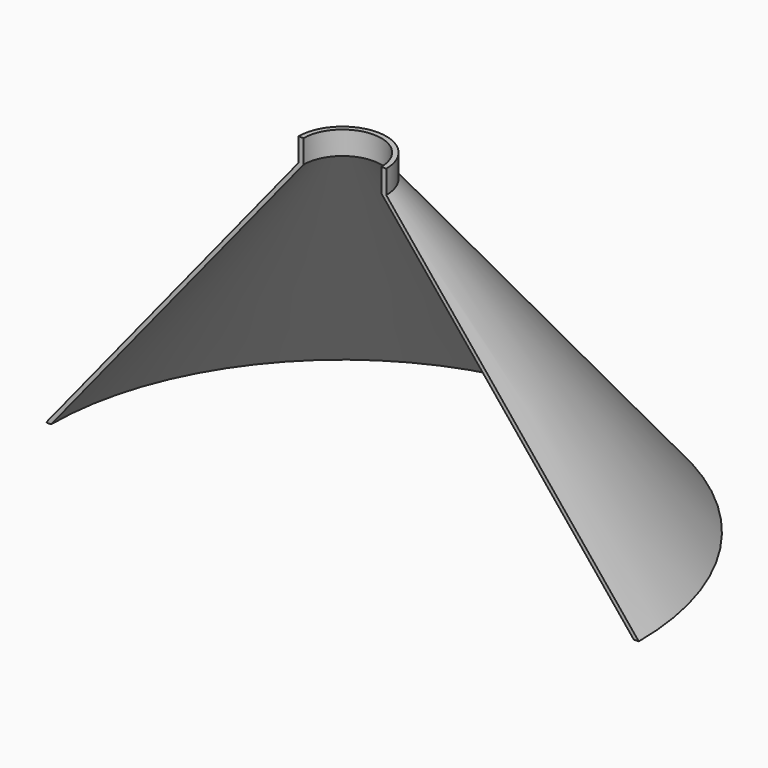
from build123d import *

# Parameters (mm, degrees)
F0_W     = 1.636358
F0_H     = 7.62
F2_ANGLE = 180


with BuildPart() as f2:
    # F0 (on Front) → F2 (revolve)
    with BuildSketch(Plane.XZ):
        Polygon((12.7, 101.6), (95.25, 0), (96.886358, 0), (14.336358, 101.6), align=None)
        with Locations((13.518179, 105.41)):
            Rectangle(F0_W, F0_H)
    revolve(axis=Axis((0, 0, 29.286476), (0, 0, 1)), revolution_arc=F2_ANGLE)


solid = f2.part
